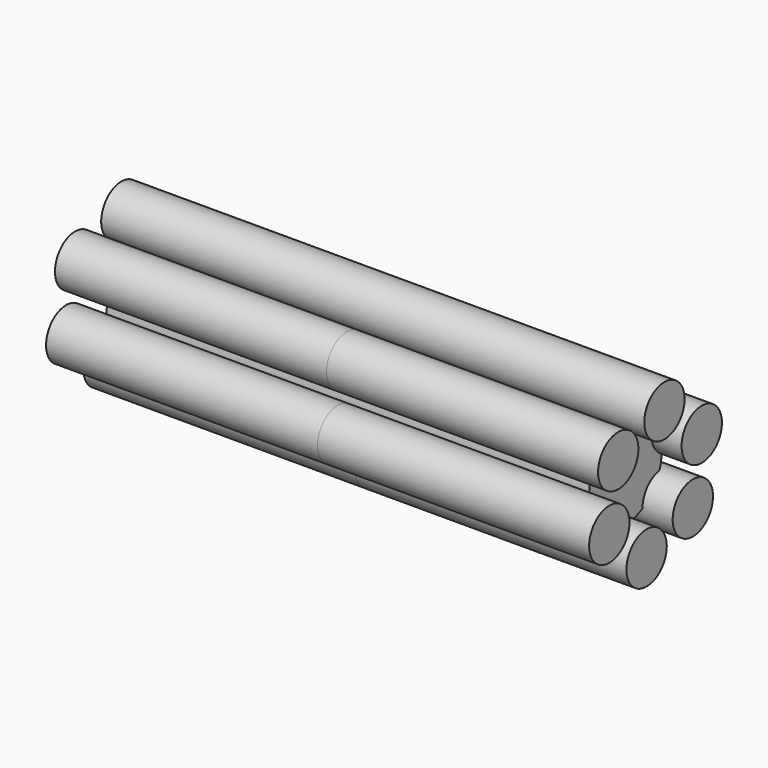
from build123d import *

# Parameters (mm, degrees)
F0_R     = 19.05
F1_DEPTH = 101.6
F2_R     = 10.61382
F3_DEPTH = 114.3


with BuildPart() as f1:
    # F0 (on Right) → F1 (new body, symmetric)
    with BuildSketch(Plane.YZ):
        Circle(F0_R)
    extrude(amount=F1_DEPTH, both=True)

    # F2 (on Right) → F3 (join, symmetric)
    with BuildSketch(Plane.YZ):
        with Locations((-19.627454, 16.752094)):
            Circle(F2_R)
        with Locations((-19.627454, 16.752094)):
            Circle(F2_R)
        with Locations((-24.321466, -8.621827)):
            Circle(F2_R)
        with Locations((-4.694012, -25.373921)):
            Circle(F2_R)
        with Locations((19.627454, -16.752094)):
            Circle(F2_R)
        with Locations((24.321466, 8.621827)):
            Circle(F2_R)
        with Locations((4.694012, 25.373921)):
            Circle(F2_R)
    extrude(amount=F3_DEPTH, both=True)


solid = f1.part
